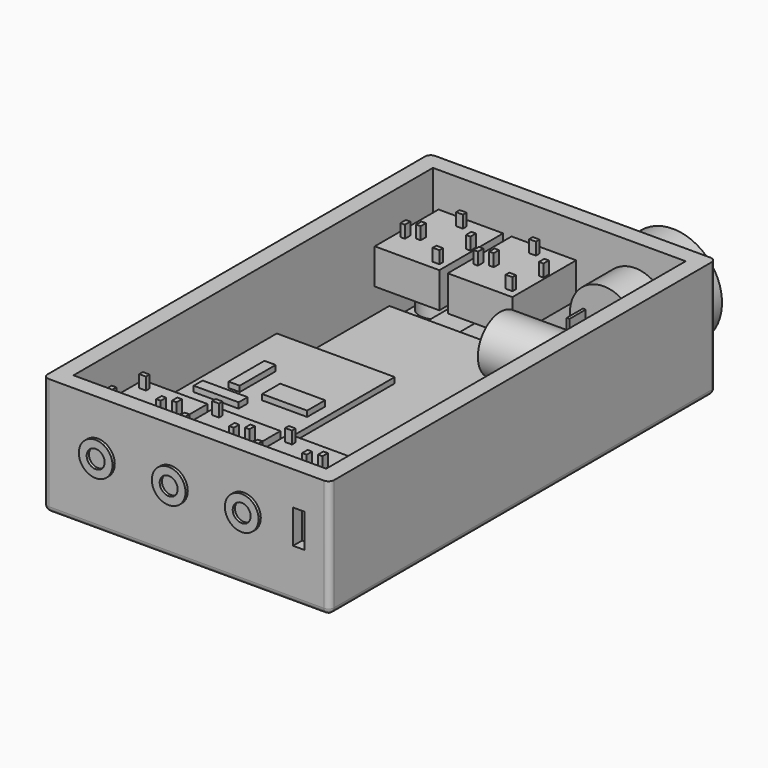
from build123d import *

# Parameters (mm, degrees)
BOX002_W                  = 30.3
BOX002_H                  = 62.8
BOX002_DEPTH              = 7.3
BOX003_W                  = 24
BOX003_H                  = 16
BOX003_DEPTH              = 1
BOX004_W                  = 15
BOX004_H                  = 12
BOX004_DEPTH              = 2
BOX012_W                  = 11.5
BOX012_H                  = 14.2
BOX012_DEPTH              = 6.3
BOX009_W                  = 1.2
BOX009_H                  = 0.8
BOX009_DEPTH              = 2.5
BOX009_PLACEMENT_ANGLE    = 90
BOX006_W                  = 1.2
BOX006_H                  = 0.8
BOX006_DEPTH              = 2.5
BOX011_W                  = 1.2
BOX011_H                  = 0.8
BOX011_DEPTH              = 2.5
BOX011_PLACEMENT_ANGLE    = 90
BOX010_W                  = 1.2
BOX010_H                  = 0.8
BOX010_DEPTH              = 2.5
BOX010_PLACEMENT_ANGLE    = 90
BOX008_W                  = 1.2
BOX008_H                  = 0.8
BOX008_DEPTH              = 2.5
CYLINDER005_R             = 1.6
CYLINDER005_DEPTH         = 3.5
CYLINDER005_ROLL_ANGLE    = 90
CYLINDER006_R             = 3
CYLINDER006_DEPTH         = 3.5
CYLINDER006_ROLL_ANGLE    = 90
BOX018_W                  = 11.5
BOX018_H                  = 14.2
BOX018_DEPTH              = 6.3
BOX015_W                  = 1.2
BOX015_H                  = 0.8
BOX015_DEPTH              = 2.5
BOX015_PLACEMENT_ANGLE    = 90
BOX013_W                  = 1.2
BOX013_H                  = 0.8
BOX013_DEPTH              = 2.5
BOX017_W                  = 1.2
BOX017_H                  = 0.8
BOX017_DEPTH              = 2.5
BOX017_PLACEMENT_ANGLE    = 90
BOX016_W                  = 1.2
BOX016_H                  = 0.8
BOX016_DEPTH              = 2.5
BOX016_PLACEMENT_ANGLE    = 90
BOX014_W                  = 1.2
BOX014_H                  = 0.8
BOX014_DEPTH              = 2.5
CYLINDER007_R             = 1.6
CYLINDER007_DEPTH         = 3.5
CYLINDER007_ROLL_ANGLE    = 90
CYLINDER008_R             = 3
CYLINDER008_DEPTH         = 3.5
CYLINDER008_ROLL_ANGLE    = 90
BOX024_W                  = 11.5
BOX024_H                  = 14.2
BOX024_DEPTH              = 6.3
BOX021_W                  = 1.2
BOX021_H                  = 0.8
BOX021_DEPTH              = 2.5
BOX021_PLACEMENT_ANGLE    = 90
BOX019_W                  = 1.2
BOX019_H                  = 0.8
BOX019_DEPTH              = 2.5
BOX023_W                  = 1.2
BOX023_H                  = 0.8
BOX023_DEPTH              = 2.5
BOX023_PLACEMENT_ANGLE    = 90
BOX022_W                  = 1.2
BOX022_H                  = 0.8
BOX022_DEPTH              = 2.5
BOX022_PLACEMENT_ANGLE    = 90
BOX020_W                  = 1.2
BOX020_H                  = 0.8
BOX020_DEPTH              = 2.5
CYLINDER009_R             = 1.6
CYLINDER009_DEPTH         = 3.5
CYLINDER009_ROLL_ANGLE    = 90
CYLINDER010_R             = 3
CYLINDER010_DEPTH         = 3.5
CYLINDER010_ROLL_ANGLE    = 90
BOX030_W                  = 11.5
BOX030_H                  = 14.2
BOX030_DEPTH              = 6.3
BOX027_W                  = 1.2
BOX027_H                  = 0.8
BOX027_DEPTH              = 2.5
BOX027_PLACEMENT_ANGLE    = 90
BOX025_W                  = 1.2
BOX025_H                  = 0.8
BOX025_DEPTH              = 2.5
BOX029_W                  = 1.2
BOX029_H                  = 0.8
BOX029_DEPTH              = 2.5
BOX029_PLACEMENT_ANGLE    = 90
BOX028_W                  = 1.2
BOX028_H                  = 0.8
BOX028_DEPTH              = 2.5
BOX028_PLACEMENT_ANGLE    = 90
BOX026_W                  = 1.2
BOX026_H                  = 0.8
BOX026_DEPTH              = 2.5
CYLINDER011_R             = 1.6
CYLINDER011_DEPTH         = 3.5
CYLINDER011_ROLL_ANGLE    = 90
CYLINDER012_R             = 3
CYLINDER012_DEPTH         = 3.5
CYLINDER012_ROLL_ANGLE    = 90
FUSION004_PLACEMENT_ANGLE = 180
BOX036_W                  = 11.5
BOX036_H                  = 14.2
BOX036_DEPTH              = 6.3
BOX033_W                  = 1.2
BOX033_H                  = 0.8
BOX033_DEPTH              = 2.5
BOX033_PLACEMENT_ANGLE    = 90
BOX031_W                  = 1.2
BOX031_H                  = 0.8
BOX031_DEPTH              = 2.5
BOX035_W                  = 1.2
BOX035_H                  = 0.8
BOX035_DEPTH              = 2.5
BOX035_PLACEMENT_ANGLE    = 90
BOX034_W                  = 1.2
BOX034_H                  = 0.8
BOX034_DEPTH              = 2.5
BOX034_PLACEMENT_ANGLE    = 90
BOX032_W                  = 1.2
BOX032_H                  = 0.8
BOX032_DEPTH              = 2.5
CYLINDER013_R             = 1.6
CYLINDER013_DEPTH         = 3.5
CYLINDER013_ROLL_ANGLE    = 90
CYLINDER014_R             = 3
CYLINDER014_DEPTH         = 3.5
CYLINDER014_ROLL_ANGLE    = 90
FUSION005_PLACEMENT_ANGLE = 180
CYLINDER016_R             = 8.75
CYLINDER016_DEPTH         = 5.5
CYLINDER016_ROLL_ANGLE    = 90
BOX037_W                  = 0.5
BOX037_H                  = 3.6
BOX037_DEPTH              = 2.8
BOX038_W                  = 0.5
BOX038_H                  = 3.6
BOX038_DEPTH              = 2.8
CYLINDER015_R             = 6
CYLINDER015_DEPTH         = 18
CYLINDER015_ROLL_ANGLE    = 90
FUSION006_PLACEMENT_ANGLE = 180
BOX040_W                  = 29
BOX040_H                  = 21
BOX040_DEPTH              = 1
BOX041_W                  = 4
BOX041_H                  = 8
BOX041_DEPTH              = 1
BOX042_W                  = 2
BOX042_H                  = 8
BOX042_DEPTH              = 1
BOX039_W                  = 8
BOX039_H                  = 2
BOX039_DEPTH              = 1
FUSION007_PLACEMENT_ANGLE = 90
BOX044_W                  = 4
BOX044_H                  = 5
BOX044_DEPTH              = 1
BOX045_W                  = 5
BOX045_H                  = 4
BOX045_DEPTH              = 2
BOX047_W                  = 2
BOX047_H                  = 3
BOX047_DEPTH              = 1
BOX046_W                  = 4
BOX046_H                  = 3
BOX046_DEPTH              = 1
BOX043_W                  = 16.5
BOX043_H                  = 25
BOX043_DEPTH              = 1
FUSION008_PITCH_ANGLE     = -90
BOX048_W                  = 1
BOX048_H                  = 20
BOX048_DEPTH              = 16
BOX049_W                  = 2
BOX049_H                  = 4
BOX049_DEPTH              = 6
CYLINDER003_R             = 3
CYLINDER003_DEPTH         = 5
CYLINDER002_R             = 3
CYLINDER002_DEPTH         = 5
CYLINDER001_R             = 3
CYLINDER001_DEPTH         = 5
CYLINDER_R                = 3
CYLINDER_DEPTH            = 5
BOX050_W                  = 2
BOX050_H                  = 4
BOX050_DEPTH              = 6
BOX001_W                  = 45
BOX001_H                  = 80
BOX001_DEPTH              = 20
BOX_W                     = 51
BOX_H                     = 86
BOX_DEPTH                 = 21
FILLET_R                  = 1
BOX051_W                  = 1
BOX051_H                  = 15
BOX051_DEPTH              = 18
BOX052_W                  = 2
BOX052_H                  = 6
BOX052_DEPTH              = 6
BOX053_W                  = 1
BOX053_H                  = 8.7
BOX053_DEPTH              = 12.5
CYLINDER017_R             = 5
CYLINDER017_DEPTH         = 11
CYLINDER017_PITCH_ANGLE   = 90


with BuildPart() as obj1:
    # Box002 → Box002 (new body)
    with BuildSketch(Plane(origin=(9, 3, 1), x_dir=(1, 0, 0), z_dir=(0, 0, 1))):
        with Locations((15.15, 31.4)):
            Rectangle(BOX002_W, BOX002_H)
    extrude(amount=BOX002_DEPTH)


with BuildPart() as obj2:
    # Box003 → Box003 (new body)
    with BuildSketch(Plane(origin=(9, 67, 1), x_dir=(1, 0, 0), z_dir=(0, 0, 1))):
        with Locations((12, 8)):
            Rectangle(BOX003_W, BOX003_H)
    extrude(amount=BOX003_DEPTH)


with BuildPart() as esp_12e_f:
    # Box004 → Box004 (new body)
    with BuildSketch(Plane(origin=(17, 69, 2), x_dir=(1, 0, 0), z_dir=(0, 0, 1))):
        with Locations((7.5, 6)):
            Rectangle(BOX004_W, BOX004_H)
    extrude(amount=BOX004_DEPTH)

    # Fusion: union obj2
    add(obj2.part)


with BuildPart() as esp_12e_f_1:
    # Fusion placement: moved
    add(esp_12e_f.part.moved(Location((0, 0, 0.5))))


with BuildPart() as obj3:
    # Box012 → Box012 (new body)
    with BuildSketch(Plane(origin=(-16, 0, 0), x_dir=(1, 0, 0), z_dir=(0, 0, 1))):
        with Locations((5.75, 7.1)):
            Rectangle(BOX012_W, BOX012_H)
    extrude(amount=BOX012_DEPTH)


with BuildPart() as obj4:
    # Box009 → Box009 (new body)
    with BuildSketch(Plane.XY):
        with Locations((0.6, 0.4)):
            Rectangle(BOX009_W, BOX009_H)
    extrude(amount=BOX009_DEPTH)


with BuildPart() as obj4_1:
    # Box009 placement: moved
    add(obj4.part.moved(Location((-7.55, 7.6, 6))).rotate(Axis((-7.55, 7.6, 6), (0, 0, 1)), BOX009_PLACEMENT_ANGLE))


with BuildPart() as obj5:
    # Box006 → Box006 (new body)
    with BuildSketch(Plane(origin=(-14.9, 12, 6), x_dir=(1, 0, 0), z_dir=(0, 0, 1))):
        with Locations((0.6, 0.4)):
            Rectangle(BOX006_W, BOX006_H)
    extrude(amount=BOX006_DEPTH)


with BuildPart() as obj6:
    # Box011 → Box011 (new body)
    with BuildSketch(Plane.XY):
        with Locations((0.6, 0.4)):
            Rectangle(BOX011_W, BOX011_H)
    extrude(amount=BOX011_DEPTH)


with BuildPart() as obj6_1:
    # Box011 placement: moved
    add(obj6.part.moved(Location((-14.9, 5.7, 6))).rotate(Axis((-14.9, 5.7, 6), (0, 0, 1)), BOX011_PLACEMENT_ANGLE))


with BuildPart() as obj7:
    # Box010 → Box010 (new body)
    with BuildSketch(Plane.XY):
        with Locations((0.6, 0.4)):
            Rectangle(BOX010_W, BOX010_H)
    extrude(amount=BOX010_DEPTH)


with BuildPart() as obj7_1:
    # Box010 placement: moved
    add(obj7.part.moved(Location((-5.55, 8.6, 6))).rotate(Axis((-5.55, 8.6, 6), (0, 0, 1)), BOX010_PLACEMENT_ANGLE))


with BuildPart() as obj8:
    # Box008 → Box008 (new body)
    with BuildSketch(Plane(origin=(-10.75, 1.6, 6), x_dir=(1, 0, 0), z_dir=(0, 0, 1))):
        with Locations((0.6, 0.4)):
            Rectangle(BOX008_W, BOX008_H)
    extrude(amount=BOX008_DEPTH)


with BuildPart() as obj9:
    # Cylinder005 → Cylinder005 (new body)
    with BuildSketch(Plane.XY):
        Circle(CYLINDER005_R)
    extrude(amount=CYLINDER005_DEPTH)


with BuildPart() as obj9_1:
    # Cylinder005 roll: moved
    add(obj9.part.rotate(Axis((0, 0, 0), (1, 0, 0)), CYLINDER005_ROLL_ANGLE))


with BuildPart() as obj9_2:
    # Cylinder005 placement: moved
    add(obj9_1.part.moved(Location((-10.25, 0, 3))))


with BuildPart() as f_3_5mm_buchse:
    # Cylinder006 → Cylinder006 (new body)
    with BuildSketch(Plane.XY):
        Circle(CYLINDER006_R)
    extrude(amount=CYLINDER006_DEPTH)


with BuildPart() as f_3_5mm_buchse_1:
    # Cylinder006 roll: moved
    add(f_3_5mm_buchse.part.rotate(Axis((0, 0, 0), (1, 0, 0)), CYLINDER006_ROLL_ANGLE))


with BuildPart() as f_3_5mm_buchse_2:
    # Cylinder006 placement: moved
    add(f_3_5mm_buchse_1.part.moved(Location((-10.25, 0, 3))))

    # Cut001: cut obj9
    add(obj9_2.part, mode=Mode.SUBTRACT)

    # Fusion001: union obj3, obj4, obj5, obj6, obj7, obj8
    add(obj3.part)
    add(obj4_1.part)
    add(obj5.part)
    add(obj6_1.part)
    add(obj7_1.part)
    add(obj8.part)


with BuildPart() as f_3_5mm_buchse_3:
    # Fusion001 placement: moved
    add(f_3_5mm_buchse_2.part.moved(Location((20, 3, 8.5))))


with BuildPart() as obj10:
    # Box018 → Box018 (new body)
    with BuildSketch(Plane(origin=(-16, 0, 0), x_dir=(1, 0, 0), z_dir=(0, 0, 1))):
        with Locations((5.75, 7.1)):
            Rectangle(BOX018_W, BOX018_H)
    extrude(amount=BOX018_DEPTH)


with BuildPart() as obj11:
    # Box015 → Box015 (new body)
    with BuildSketch(Plane.XY):
        with Locations((0.6, 0.4)):
            Rectangle(BOX015_W, BOX015_H)
    extrude(amount=BOX015_DEPTH)


with BuildPart() as obj11_1:
    # Box015 placement: moved
    add(obj11.part.moved(Location((-7.55, 7.6, 6))).rotate(Axis((-7.55, 7.6, 6), (0, 0, 1)), BOX015_PLACEMENT_ANGLE))


with BuildPart() as obj12:
    # Box013 → Box013 (new body)
    with BuildSketch(Plane(origin=(-14.9, 12, 6), x_dir=(1, 0, 0), z_dir=(0, 0, 1))):
        with Locations((0.6, 0.4)):
            Rectangle(BOX013_W, BOX013_H)
    extrude(amount=BOX013_DEPTH)


with BuildPart() as obj13:
    # Box017 → Box017 (new body)
    with BuildSketch(Plane.XY):
        with Locations((0.6, 0.4)):
            Rectangle(BOX017_W, BOX017_H)
    extrude(amount=BOX017_DEPTH)


with BuildPart() as obj13_1:
    # Box017 placement: moved
    add(obj13.part.moved(Location((-14.9, 5.7, 6))).rotate(Axis((-14.9, 5.7, 6), (0, 0, 1)), BOX017_PLACEMENT_ANGLE))


with BuildPart() as obj14:
    # Box016 → Box016 (new body)
    with BuildSketch(Plane.XY):
        with Locations((0.6, 0.4)):
            Rectangle(BOX016_W, BOX016_H)
    extrude(amount=BOX016_DEPTH)


with BuildPart() as obj14_1:
    # Box016 placement: moved
    add(obj14.part.moved(Location((-5.55, 8.6, 6))).rotate(Axis((-5.55, 8.6, 6), (0, 0, 1)), BOX016_PLACEMENT_ANGLE))


with BuildPart() as obj15:
    # Box014 → Box014 (new body)
    with BuildSketch(Plane(origin=(-10.75, 1.6, 6), x_dir=(1, 0, 0), z_dir=(0, 0, 1))):
        with Locations((0.6, 0.4)):
            Rectangle(BOX014_W, BOX014_H)
    extrude(amount=BOX014_DEPTH)


with BuildPart() as obj16:
    # Cylinder007 → Cylinder007 (new body)
    with BuildSketch(Plane.XY):
        Circle(CYLINDER007_R)
    extrude(amount=CYLINDER007_DEPTH)


with BuildPart() as obj16_1:
    # Cylinder007 roll: moved
    add(obj16.part.rotate(Axis((0, 0, 0), (1, 0, 0)), CYLINDER007_ROLL_ANGLE))


with BuildPart() as obj16_2:
    # Cylinder007 placement: moved
    add(obj16_1.part.moved(Location((-10.25, 0, 3))))


with BuildPart() as f_3_5mm_buchse001:
    # Cylinder008 → Cylinder008 (new body)
    with BuildSketch(Plane.XY):
        Circle(CYLINDER008_R)
    extrude(amount=CYLINDER008_DEPTH)


with BuildPart() as f_3_5mm_buchse001_1:
    # Cylinder008 roll: moved
    add(f_3_5mm_buchse001.part.rotate(Axis((0, 0, 0), (1, 0, 0)), CYLINDER008_ROLL_ANGLE))


with BuildPart() as f_3_5mm_buchse001_2:
    # Cylinder008 placement: moved
    add(f_3_5mm_buchse001_1.part.moved(Location((-10.25, 0, 3))))

    # Cut002: cut obj16
    add(obj16_2.part, mode=Mode.SUBTRACT)

    # Fusion002: union obj10, obj11, obj12, obj13, obj14, obj15
    add(obj10.part)
    add(obj11_1.part)
    add(obj12.part)
    add(obj13_1.part)
    add(obj14_1.part)
    add(obj15.part)


with BuildPart() as f_3_5mm_buchse001_3:
    # Fusion002 placement: moved
    add(f_3_5mm_buchse001_2.part.moved(Location((33, 3, 8.5))))


with BuildPart() as obj17:
    # Box024 → Box024 (new body)
    with BuildSketch(Plane(origin=(-16, 0, 0), x_dir=(1, 0, 0), z_dir=(0, 0, 1))):
        with Locations((5.75, 7.1)):
            Rectangle(BOX024_W, BOX024_H)
    extrude(amount=BOX024_DEPTH)


with BuildPart() as obj18:
    # Box021 → Box021 (new body)
    with BuildSketch(Plane.XY):
        with Locations((0.6, 0.4)):
            Rectangle(BOX021_W, BOX021_H)
    extrude(amount=BOX021_DEPTH)


with BuildPart() as obj18_1:
    # Box021 placement: moved
    add(obj18.part.moved(Location((-7.55, 7.6, 6))).rotate(Axis((-7.55, 7.6, 6), (0, 0, 1)), BOX021_PLACEMENT_ANGLE))


with BuildPart() as obj19:
    # Box019 → Box019 (new body)
    with BuildSketch(Plane(origin=(-14.9, 12, 6), x_dir=(1, 0, 0), z_dir=(0, 0, 1))):
        with Locations((0.6, 0.4)):
            Rectangle(BOX019_W, BOX019_H)
    extrude(amount=BOX019_DEPTH)


with BuildPart() as obj20:
    # Box023 → Box023 (new body)
    with BuildSketch(Plane.XY):
        with Locations((0.6, 0.4)):
            Rectangle(BOX023_W, BOX023_H)
    extrude(amount=BOX023_DEPTH)


with BuildPart() as obj20_1:
    # Box023 placement: moved
    add(obj20.part.moved(Location((-14.9, 5.7, 6))).rotate(Axis((-14.9, 5.7, 6), (0, 0, 1)), BOX023_PLACEMENT_ANGLE))


with BuildPart() as obj21:
    # Box022 → Box022 (new body)
    with BuildSketch(Plane.XY):
        with Locations((0.6, 0.4)):
            Rectangle(BOX022_W, BOX022_H)
    extrude(amount=BOX022_DEPTH)


with BuildPart() as obj21_1:
    # Box022 placement: moved
    add(obj21.part.moved(Location((-5.55, 8.6, 6))).rotate(Axis((-5.55, 8.6, 6), (0, 0, 1)), BOX022_PLACEMENT_ANGLE))


with BuildPart() as obj22:
    # Box020 → Box020 (new body)
    with BuildSketch(Plane(origin=(-10.75, 1.6, 6), x_dir=(1, 0, 0), z_dir=(0, 0, 1))):
        with Locations((0.6, 0.4)):
            Rectangle(BOX020_W, BOX020_H)
    extrude(amount=BOX020_DEPTH)


with BuildPart() as obj23:
    # Cylinder009 → Cylinder009 (new body)
    with BuildSketch(Plane.XY):
        Circle(CYLINDER009_R)
    extrude(amount=CYLINDER009_DEPTH)


with BuildPart() as obj23_1:
    # Cylinder009 roll: moved
    add(obj23.part.rotate(Axis((0, 0, 0), (1, 0, 0)), CYLINDER009_ROLL_ANGLE))


with BuildPart() as obj23_2:
    # Cylinder009 placement: moved
    add(obj23_1.part.moved(Location((-10.25, 0, 3))))


with BuildPart() as f_3_5mm_buchse002:
    # Cylinder010 → Cylinder010 (new body)
    with BuildSketch(Plane.XY):
        Circle(CYLINDER010_R)
    extrude(amount=CYLINDER010_DEPTH)


with BuildPart() as f_3_5mm_buchse002_1:
    # Cylinder010 roll: moved
    add(f_3_5mm_buchse002.part.rotate(Axis((0, 0, 0), (1, 0, 0)), CYLINDER010_ROLL_ANGLE))


with BuildPart() as f_3_5mm_buchse002_2:
    # Cylinder010 placement: moved
    add(f_3_5mm_buchse002_1.part.moved(Location((-10.25, 0, 3))))

    # Cut003: cut obj23
    add(obj23_2.part, mode=Mode.SUBTRACT)

    # Fusion003: union obj17, obj18, obj19, obj20, obj21, obj22
    add(obj17.part)
    add(obj18_1.part)
    add(obj19.part)
    add(obj20_1.part)
    add(obj21_1.part)
    add(obj22.part)


with BuildPart() as f_3_5mm_buchse002_3:
    # Fusion003 placement: moved
    add(f_3_5mm_buchse002_2.part.moved(Location((46, 3, 8.5))))


with BuildPart() as obj24:
    # Box030 → Box030 (new body)
    with BuildSketch(Plane(origin=(-16, 0, 0), x_dir=(1, 0, 0), z_dir=(0, 0, 1))):
        with Locations((5.75, 7.1)):
            Rectangle(BOX030_W, BOX030_H)
    extrude(amount=BOX030_DEPTH)


with BuildPart() as obj25:
    # Box027 → Box027 (new body)
    with BuildSketch(Plane.XY):
        with Locations((0.6, 0.4)):
            Rectangle(BOX027_W, BOX027_H)
    extrude(amount=BOX027_DEPTH)


with BuildPart() as obj25_1:
    # Box027 placement: moved
    add(obj25.part.moved(Location((-7.55, 7.6, 6))).rotate(Axis((-7.55, 7.6, 6), (0, 0, 1)), BOX027_PLACEMENT_ANGLE))


with BuildPart() as obj26:
    # Box025 → Box025 (new body)
    with BuildSketch(Plane(origin=(-14.9, 12, 6), x_dir=(1, 0, 0), z_dir=(0, 0, 1))):
        with Locations((0.6, 0.4)):
            Rectangle(BOX025_W, BOX025_H)
    extrude(amount=BOX025_DEPTH)


with BuildPart() as obj27:
    # Box029 → Box029 (new body)
    with BuildSketch(Plane.XY):
        with Locations((0.6, 0.4)):
            Rectangle(BOX029_W, BOX029_H)
    extrude(amount=BOX029_DEPTH)


with BuildPart() as obj27_1:
    # Box029 placement: moved
    add(obj27.part.moved(Location((-14.9, 5.7, 6))).rotate(Axis((-14.9, 5.7, 6), (0, 0, 1)), BOX029_PLACEMENT_ANGLE))


with BuildPart() as obj28:
    # Box028 → Box028 (new body)
    with BuildSketch(Plane.XY):
        with Locations((0.6, 0.4)):
            Rectangle(BOX028_W, BOX028_H)
    extrude(amount=BOX028_DEPTH)


with BuildPart() as obj28_1:
    # Box028 placement: moved
    add(obj28.part.moved(Location((-5.55, 8.6, 6))).rotate(Axis((-5.55, 8.6, 6), (0, 0, 1)), BOX028_PLACEMENT_ANGLE))


with BuildPart() as obj29:
    # Box026 → Box026 (new body)
    with BuildSketch(Plane(origin=(-10.75, 1.6, 6), x_dir=(1, 0, 0), z_dir=(0, 0, 1))):
        with Locations((0.6, 0.4)):
            Rectangle(BOX026_W, BOX026_H)
    extrude(amount=BOX026_DEPTH)


with BuildPart() as obj30:
    # Cylinder011 → Cylinder011 (new body)
    with BuildSketch(Plane.XY):
        Circle(CYLINDER011_R)
    extrude(amount=CYLINDER011_DEPTH)


with BuildPart() as obj30_1:
    # Cylinder011 roll: moved
    add(obj30.part.rotate(Axis((0, 0, 0), (1, 0, 0)), CYLINDER011_ROLL_ANGLE))


with BuildPart() as obj30_2:
    # Cylinder011 placement: moved
    add(obj30_1.part.moved(Location((-10.25, 0, 3))))


with BuildPart() as f_3_5mm_buchse003:
    # Cylinder012 → Cylinder012 (new body)
    with BuildSketch(Plane.XY):
        Circle(CYLINDER012_R)
    extrude(amount=CYLINDER012_DEPTH)


with BuildPart() as f_3_5mm_buchse003_1:
    # Cylinder012 roll: moved
    add(f_3_5mm_buchse003.part.rotate(Axis((0, 0, 0), (1, 0, 0)), CYLINDER012_ROLL_ANGLE))


with BuildPart() as f_3_5mm_buchse003_2:
    # Cylinder012 placement: moved
    add(f_3_5mm_buchse003_1.part.moved(Location((-10.25, 0, 3))))

    # Cut004: cut obj30
    add(obj30_2.part, mode=Mode.SUBTRACT)

    # Fusion004: union obj24, obj25, obj26, obj27, obj28, obj29
    add(obj24.part)
    add(obj25_1.part)
    add(obj26.part)
    add(obj27_1.part)
    add(obj28_1.part)
    add(obj29.part)


with BuildPart() as f_3_5mm_buchse003_3:
    # Fusion004 placement: moved
    add(f_3_5mm_buchse003_2.part.moved(Location((-0.5, 83, 8.5))).rotate(Axis((-0.5, 83, 8.5), (0, 0, 1)), FUSION004_PLACEMENT_ANGLE))


with BuildPart() as obj31:
    # Box036 → Box036 (new body)
    with BuildSketch(Plane(origin=(-16, 0, 0), x_dir=(1, 0, 0), z_dir=(0, 0, 1))):
        with Locations((5.75, 7.1)):
            Rectangle(BOX036_W, BOX036_H)
    extrude(amount=BOX036_DEPTH)


with BuildPart() as obj32:
    # Box033 → Box033 (new body)
    with BuildSketch(Plane.XY):
        with Locations((0.6, 0.4)):
            Rectangle(BOX033_W, BOX033_H)
    extrude(amount=BOX033_DEPTH)


with BuildPart() as obj32_1:
    # Box033 placement: moved
    add(obj32.part.moved(Location((-7.55, 7.6, 6))).rotate(Axis((-7.55, 7.6, 6), (0, 0, 1)), BOX033_PLACEMENT_ANGLE))


with BuildPart() as obj33:
    # Box031 → Box031 (new body)
    with BuildSketch(Plane(origin=(-14.9, 12, 6), x_dir=(1, 0, 0), z_dir=(0, 0, 1))):
        with Locations((0.6, 0.4)):
            Rectangle(BOX031_W, BOX031_H)
    extrude(amount=BOX031_DEPTH)


with BuildPart() as obj34:
    # Box035 → Box035 (new body)
    with BuildSketch(Plane.XY):
        with Locations((0.6, 0.4)):
            Rectangle(BOX035_W, BOX035_H)
    extrude(amount=BOX035_DEPTH)


with BuildPart() as obj34_1:
    # Box035 placement: moved
    add(obj34.part.moved(Location((-14.9, 5.7, 6))).rotate(Axis((-14.9, 5.7, 6), (0, 0, 1)), BOX035_PLACEMENT_ANGLE))


with BuildPart() as obj35:
    # Box034 → Box034 (new body)
    with BuildSketch(Plane.XY):
        with Locations((0.6, 0.4)):
            Rectangle(BOX034_W, BOX034_H)
    extrude(amount=BOX034_DEPTH)


with BuildPart() as obj35_1:
    # Box034 placement: moved
    add(obj35.part.moved(Location((-5.55, 8.6, 6))).rotate(Axis((-5.55, 8.6, 6), (0, 0, 1)), BOX034_PLACEMENT_ANGLE))


with BuildPart() as obj36:
    # Box032 → Box032 (new body)
    with BuildSketch(Plane(origin=(-10.75, 1.6, 6), x_dir=(1, 0, 0), z_dir=(0, 0, 1))):
        with Locations((0.6, 0.4)):
            Rectangle(BOX032_W, BOX032_H)
    extrude(amount=BOX032_DEPTH)


with BuildPart() as obj37:
    # Cylinder013 → Cylinder013 (new body)
    with BuildSketch(Plane.XY):
        Circle(CYLINDER013_R)
    extrude(amount=CYLINDER013_DEPTH)


with BuildPart() as obj37_1:
    # Cylinder013 roll: moved
    add(obj37.part.rotate(Axis((0, 0, 0), (1, 0, 0)), CYLINDER013_ROLL_ANGLE))


with BuildPart() as obj37_2:
    # Cylinder013 placement: moved
    add(obj37_1.part.moved(Location((-10.25, 0, 3))))


with BuildPart() as f_3_5mm_buchse004:
    # Cylinder014 → Cylinder014 (new body)
    with BuildSketch(Plane.XY):
        Circle(CYLINDER014_R)
    extrude(amount=CYLINDER014_DEPTH)


with BuildPart() as f_3_5mm_buchse004_1:
    # Cylinder014 roll: moved
    add(f_3_5mm_buchse004.part.rotate(Axis((0, 0, 0), (1, 0, 0)), CYLINDER014_ROLL_ANGLE))


with BuildPart() as f_3_5mm_buchse004_2:
    # Cylinder014 placement: moved
    add(f_3_5mm_buchse004_1.part.moved(Location((-10.25, 0, 3))))

    # Cut005: cut obj37
    add(obj37_2.part, mode=Mode.SUBTRACT)

    # Fusion005: union obj31, obj32, obj33, obj34, obj35, obj36
    add(obj31.part)
    add(obj32_1.part)
    add(obj33.part)
    add(obj34_1.part)
    add(obj35_1.part)
    add(obj36.part)


with BuildPart() as f_3_5mm_buchse004_3:
    # Fusion005 placement: moved
    add(f_3_5mm_buchse004_2.part.moved(Location((12.5, 83, 8.5))).rotate(Axis((12.5, 83, 8.5), (0, 0, 1)), FUSION005_PLACEMENT_ANGLE))


with BuildPart() as zylinder006:
    # Cylinder016 → Cylinder016 (new body)
    with BuildSketch(Plane.XY):
        Circle(CYLINDER016_R)
    extrude(amount=CYLINDER016_DEPTH)


with BuildPart() as zylinder006_1:
    # Cylinder016 roll: moved
    add(zylinder006.part.rotate(Axis((0, 0, 0), (1, 0, 0)), CYLINDER016_ROLL_ANGLE))


with BuildPart() as zylinder006_2:
    # Cylinder016 placement: moved
    add(zylinder006_1.part.moved(Location((-20, -9.9, 0))))


with BuildPart() as obj38:
    # Box037 → Box037 (new body)
    with BuildSketch(Plane(origin=(-16.8, 0, -1.5), x_dir=(1, 0, 0), z_dir=(0, 0, 1))):
        with Locations((0.25, 1.8)):
            Rectangle(BOX037_W, BOX037_H)
    extrude(amount=BOX037_DEPTH)


with BuildPart() as obj39:
    # Box038 → Box038 (new body)
    with BuildSketch(Plane(origin=(-23.3, 0, -1.5), x_dir=(1, 0, 0), z_dir=(0, 0, 1))):
        with Locations((0.25, 1.8)):
            Rectangle(BOX038_W, BOX038_H)
    extrude(amount=BOX038_DEPTH)


with BuildPart() as taster:
    # Cylinder015 → Cylinder015 (new body)
    with BuildSketch(Plane.XY):
        Circle(CYLINDER015_R)
    extrude(amount=CYLINDER015_DEPTH)


with BuildPart() as taster_1:
    # Cylinder015 roll: moved
    add(taster.part.rotate(Axis((0, 0, 0), (1, 0, 0)), CYLINDER015_ROLL_ANGLE))


with BuildPart() as taster_2:
    # Cylinder015 placement: moved
    add(taster_1.part.moved(Location((-20, 0, 0))))

    # Fusion006: union Zylinder006, obj38, obj39
    add(zylinder006_2.part)
    add(obj38.part)
    add(obj39.part)


with BuildPart() as taster_3:
    # Fusion006 placement: moved
    add(taster_2.part.moved(Location((19, 76, 11))).rotate(Axis((19, 76, 11), (0, 0, 1)), FUSION006_PLACEMENT_ANGLE))


with BuildPart() as obj40:
    # Box040 → Box040 (new body)
    with BuildSketch(Plane(origin=(3, 18, 8.5), x_dir=(1, 0, 0), z_dir=(0, 0, 1))):
        with Locations((14.5, 10.5)):
            Rectangle(BOX040_W, BOX040_H)
    extrude(amount=BOX040_DEPTH)


with BuildPart() as obj41:
    # Box041 → Box041 (new body)
    with BuildSketch(Plane(origin=(15, 20, 9.5), x_dir=(1, 0, 0), z_dir=(0, 0, 1))):
        with Locations((2, 4)):
            Rectangle(BOX041_W, BOX041_H)
    extrude(amount=BOX041_DEPTH)


with BuildPart() as obj42:
    # Box042 → Box042 (new body)
    with BuildSketch(Plane(origin=(11, 29, 9.5), x_dir=(1, 0, 0), z_dir=(0, 0, 1))):
        with Locations((1, 4)):
            Rectangle(BOX042_W, BOX042_H)
    extrude(amount=BOX042_DEPTH)


with BuildPart() as obj43:
    # Box039 → Box039 (new body)
    with BuildSketch(Plane(origin=(15, 32, 9.5), x_dir=(1, 0, 0), z_dir=(0, 0, 1))):
        with Locations((4, 1)):
            Rectangle(BOX039_W, BOX039_H)
    extrude(amount=BOX039_DEPTH)

    # Fusion007: union obj40, obj41, obj42)
    add(obj40.part)
    add(obj41.part)
    add(obj42.part)


with BuildPart() as obj43_1:
    # Fusion007 placement: moved
    add(obj43.part.moved(Location((43, 15, 0.5))).rotate(Axis((43, 15, 0.5), (0, 0, 1)), FUSION007_PLACEMENT_ANGLE))


with BuildPart() as obj44:
    # Box044 → Box044 (new body)
    with BuildSketch(Plane(origin=(32, 32, 9.5), x_dir=(1, 0, 0), z_dir=(0, 0, 1))):
        with Locations((2, 2.5)):
            Rectangle(BOX044_W, BOX044_H)
    extrude(amount=BOX044_DEPTH)


with BuildPart() as obj45:
    # Box045 → Box045 (new body)
    with BuildSketch(Plane(origin=(31.5, 40, 9.5), x_dir=(1, 0, 0), z_dir=(0, 0, 1))):
        with Locations((2.5, 2)):
            Rectangle(BOX045_W, BOX045_H)
    extrude(amount=BOX045_DEPTH)


with BuildPart() as obj46:
    # Box047 → Box047 (new body)
    with BuildSketch(Plane(origin=(37, 22, 9.5), x_dir=(1, 0, 0), z_dir=(0, 0, 1))):
        with Locations((1, 1.5)):
            Rectangle(BOX047_W, BOX047_H)
    extrude(amount=BOX047_DEPTH)


with BuildPart() as obj47:
    # Box046 → Box046 (new body)
    with BuildSketch(Plane(origin=(29, 22, 9.5), x_dir=(1, 0, 0), z_dir=(0, 0, 1))):
        with Locations((2, 1.5)):
            Rectangle(BOX046_W, BOX046_H)
    extrude(amount=BOX046_DEPTH)


with BuildPart() as obj48:
    # Box043 → Box043 (new body)
    with BuildSketch(Plane(origin=(26, 18, 8.5), x_dir=(1, 0, 0), z_dir=(0, 0, 1))):
        with Locations((8.25, 12.5)):
            Rectangle(BOX043_W, BOX043_H)
    extrude(amount=BOX043_DEPTH)

    # Fusion008: union obj44, obj45, obj46, obj47
    add(obj44.part)
    add(obj45.part)
    add(obj46.part)
    add(obj47.part)


with BuildPart() as obj48_1:
    # Fusion008 pitch: moved
    add(obj48.part.rotate(Axis((0, 0, 0), (0, 1, 0)), FUSION008_PITCH_ANGLE))


with BuildPart() as obj48_2:
    # Fusion008 placement: moved
    add(obj48_1.part.moved(Location((56, 8, -25))))


with BuildPart() as obj49:
    # Box048 → Box048 (new body)
    with BuildSketch(Plane(origin=(47, 3, 3.5), x_dir=(1, 0, 0), z_dir=(0, 0, 1))):
        with Locations((0.5, 10)):
            Rectangle(BOX048_W, BOX048_H)
    extrude(amount=BOX048_DEPTH)


with BuildPart() as obj50:
    # Box049 → Box049 (new body)
    with BuildSketch(Plane(origin=(45, 2, 9), x_dir=(1, 0, 0), z_dir=(0, 0, 1))):
        with Locations((1, 2)):
            Rectangle(BOX049_W, BOX049_H)
    extrude(amount=BOX049_DEPTH)

    # Fusion009: union obj49
    add(obj49.part)


with BuildPart() as obj50_1:
    # Fusion009 placement: moved
    add(obj50.part.moved(Location((-0.5, 0, 0))))


with BuildPart() as montageloch4:
    # Cylinder003 → Cylinder003 (new body)
    with BuildSketch(Plane(origin=(45, 80, 1), x_dir=(1, 0, 0), z_dir=(0, 0, 1))):
        Circle(CYLINDER003_R)
    extrude(amount=CYLINDER003_DEPTH)


with BuildPart() as montageloch3:
    # Cylinder002 → Cylinder002 (new body)
    with BuildSketch(Plane(origin=(6, 80, 1), x_dir=(1, 0, 0), z_dir=(0, 0, 1))):
        Circle(CYLINDER002_R)
    extrude(amount=CYLINDER002_DEPTH)


with BuildPart() as montageloch2:
    # Cylinder001 → Cylinder001 (new body)
    with BuildSketch(Plane(origin=(45, 6, 1), x_dir=(1, 0, 0), z_dir=(0, 0, 1))):
        Circle(CYLINDER001_R)
    extrude(amount=CYLINDER001_DEPTH)


with BuildPart() as montageloch1:
    # Cylinder → Cylinder (new body)
    with BuildSketch(Plane(origin=(6, 6, 1), x_dir=(1, 0, 0), z_dir=(0, 0, 1))):
        Circle(CYLINDER_R)
    extrude(amount=CYLINDER_DEPTH)


with BuildPart() as obj51:
    # Box050 → Box050 (new body)
    with BuildSketch(Plane(origin=(44.5, 0, 9), x_dir=(1, 0, 0), z_dir=(0, 0, 1))):
        with Locations((1, 2)):
            Rectangle(BOX050_W, BOX050_H)
    extrude(amount=BOX050_DEPTH)


with BuildPart() as obj52:
    # Box001 → Box001 (new body)
    with BuildSketch(Plane(origin=(3, 3, 1), x_dir=(1, 0, 0), z_dir=(0, 0, 1))):
        with Locations((22.5, 40)):
            Rectangle(BOX001_W, BOX001_H)
    extrude(amount=BOX001_DEPTH)


with BuildPart() as obj53:
    # Box → Box (new body)
    with BuildSketch(Plane.XY):
        with Locations((25.5, 43)):
            Rectangle(BOX_W, BOX_H)
    extrude(amount=BOX_DEPTH)

    # Cut: cut obj52
    add(obj52.part, mode=Mode.SUBTRACT)

    # Cut006: cut obj51
    add(obj51.part, mode=Mode.SUBTRACT)

    # Fillet
    fillet_edges = [obj53.edges().sort_by_distance(p)[0] for p in [
        (0, 0, 10.5),
        (0, 86, 10.5),
        (0, 43, 0),
        (25.5, 0, 0),
        (51, 0, 10.5),
        (25.5, 86, 0),
        (51, 86, 10.5),
        (51, 43, 0),
    ]]
    fillet(fillet_edges, radius=FILLET_R)

    # Fusion010: union Montageloch4, Montageloch3, Montageloch2, Montageloch1
    add(montageloch4.part)
    add(montageloch3.part)
    add(montageloch2.part)
    add(montageloch1.part)


with BuildPart() as obj54:
    # Box051 → Box051 (new body)
    with BuildSketch(Plane(origin=(46.5, 54, 1), x_dir=(1, 0, 0), z_dir=(0, 0, 1))):
        with Locations((0.5, 7.5)):
            Rectangle(BOX051_W, BOX051_H)
    extrude(amount=BOX051_DEPTH)


with BuildPart() as obj55:
    # Box052 → Box052 (new body)
    with BuildSketch(Plane(origin=(44.5, 56, 2.5), x_dir=(1, 0, 0), z_dir=(0, 0, 1))):
        with Locations((1, 3)):
            Rectangle(BOX052_W, BOX052_H)
    extrude(amount=BOX052_DEPTH)


with BuildPart() as obj56:
    # Box053 → Box053 (new body)
    with BuildSketch(Plane(origin=(43.5, 64, 3), x_dir=(1, 0, 0), z_dir=(0, 0, 1))):
        with Locations((0.5, 4.35)):
            Rectangle(BOX053_W, BOX053_H)
    extrude(amount=BOX053_DEPTH)


with BuildPart() as zylinder007:
    # Cylinder017 → Cylinder017 (new body)
    with BuildSketch(Plane.XY):
        Circle(CYLINDER017_R)
    extrude(amount=CYLINDER017_DEPTH)


with BuildPart() as zylinder007_1:
    # Cylinder017 pitch: moved
    add(zylinder007.part.rotate(Axis((0, 0, 0), (0, 1, 0)), CYLINDER017_PITCH_ANGLE))


with BuildPart() as zylinder007_2:
    # Cylinder017 placement: moved
    add(zylinder007_1.part.moved(Location((35, 58, 14))))


solid = Compound([obj1.part, esp_12e_f_1.part, f_3_5mm_buchse_3.part, f_3_5mm_buchse001_3.part, f_3_5mm_buchse002_3.part, f_3_5mm_buchse003_3.part, f_3_5mm_buchse004_3.part, taster_3.part, obj43_1.part, obj48_2.part, obj50_1.part, obj53.part, obj54.part, obj55.part, obj56.part, zylinder007_2.part])
